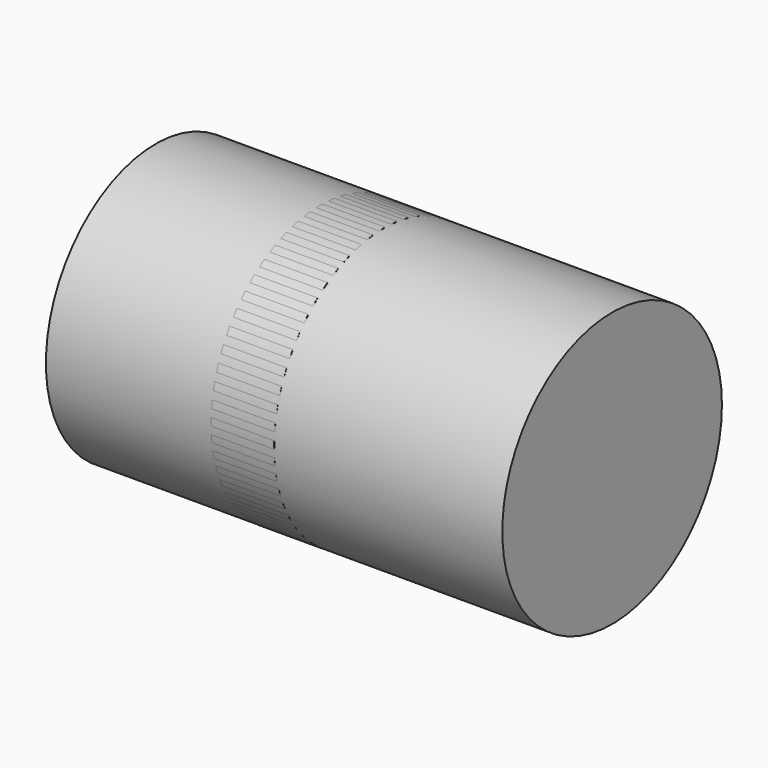
from build123d import *

# Parameters (mm, degrees)
F0_W      = 5.842
F0_H      = 12.7
F1_FACE_R = 12.7
F2_DEPTH  = 21.1144


with BuildPart() as f1:
    # F0 (on Front) → F1 (revolve)
    with BuildSketch(Plane.XZ):
        with Locations((2.921, 6.35)):
            Rectangle(F0_W, F0_H)
    revolve(axis=Axis((33.147, 0, 0), (-1, 0, 0)))


with BuildPart() as f2:
    # F1_face (on face) → F2 (new body, symmetric)
    with BuildSketch(Plane.YZ.offset(5.842)):
        Circle(F1_FACE_R)
    extrude(amount=F2_DEPTH, both=True)


solid = Compound([f1.part, f2.part])
